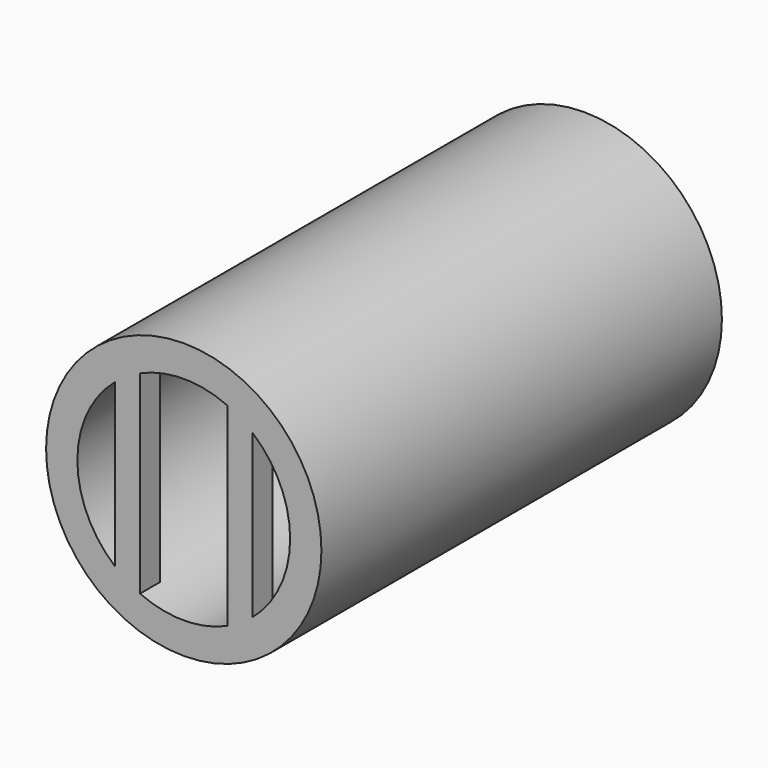
from build123d import *

# Parameters (mm, degrees)
F0_R     = 13.97
F1_DEPTH = 50.8
F2_R     = 10.795
F3_DEPTH = 50.8
F5_DEPTH = 2.54


with BuildPart() as f1:
    # F0 (on Front) → F1 (new body)
    with BuildSketch(Plane.XZ):
        Circle(F0_R)
    extrude(amount=F1_DEPTH)

    # F2 (on face) → F3 (cut)
    with BuildSketch(Plane.XZ.offset(50.8)):
        Circle(F2_R)
    extrude(amount=-F3_DEPTH, mode=Mode.SUBTRACT)

    # F4 (on face) → F5 (join)
    with BuildSketch(Plane.XZ.offset(50.8)):
        with BuildLine():
            ThreePointArc((-6.973512343, -8.2402761242), (-5.7595656887, -9.1301384479), (-4.4336462139, -9.8425))
            Line((-4.4336462139, -9.8425), (-4.4336462139, 9.8425))
            ThreePointArc((-4.4336462139, 9.8425), (-5.7595656887, 9.1301384479), (-6.973512343, 8.2402761242))
            Line((-6.973512343, 8.2402761242), (-6.973512343, -8.2402761242))
        make_face()
    extrude(amount=-F5_DEPTH)

    # F6: F1 across plane


with BuildPart() as f1_1:
    add(f1.part)
    add(f1.part.mirror(Plane.YZ))


solid = f1_1.part
